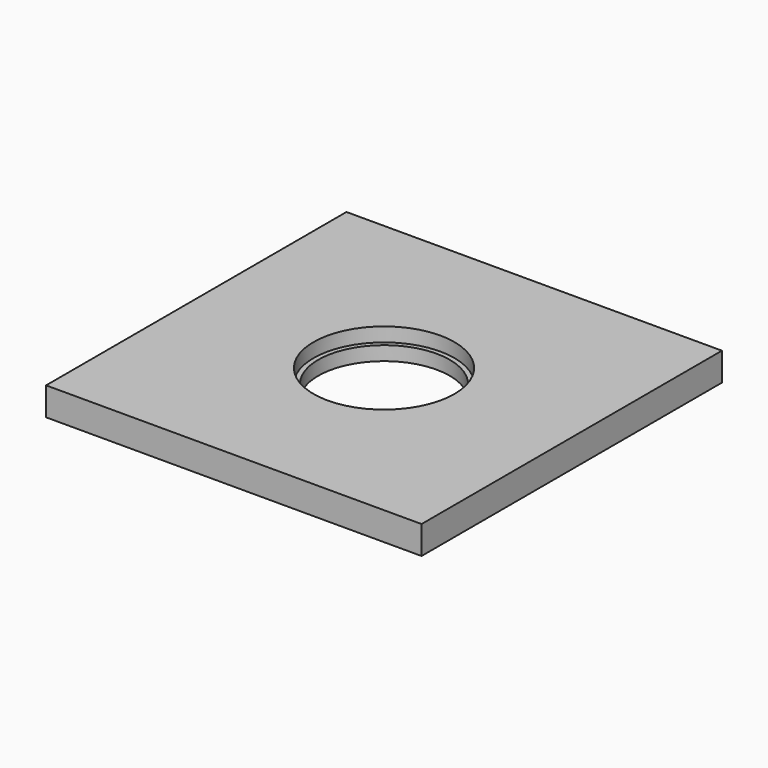
from build123d import *

# Parameters (mm, degrees)
F0_W      = 80
F0_H      = 80
F0_R      = 15
F1_DEPTH  = 3
F0_R_2    = 14
F1_FACE_W = 80
F1_FACE_H = 80
F1_FACE_R = 15
F2_DEPTH  = 3


with BuildPart() as f1:
    # F0 (on Top) → F1 (new body)
    with BuildSketch(Plane.XY):
        Rectangle(F0_W, F0_H)
        Circle(F0_R, mode=Mode.SUBTRACT)
    extrude(amount=F1_DEPTH)

    # F0 (on Top) + F1_face (on face) → F2 (join)
    with BuildSketch(Plane.XY):
        Rectangle(F0_W, F0_H)
        Circle(F0_R, mode=Mode.SUBTRACT)
        Circle(F0_R)
        Circle(F0_R_2, mode=Mode.SUBTRACT)
    with BuildSketch(Plane.XY.offset(3)):
        Rectangle(F1_FACE_W, F1_FACE_H)
        Circle(F1_FACE_R, mode=Mode.SUBTRACT)
    extrude(amount=-F2_DEPTH)


solid = f1.part
